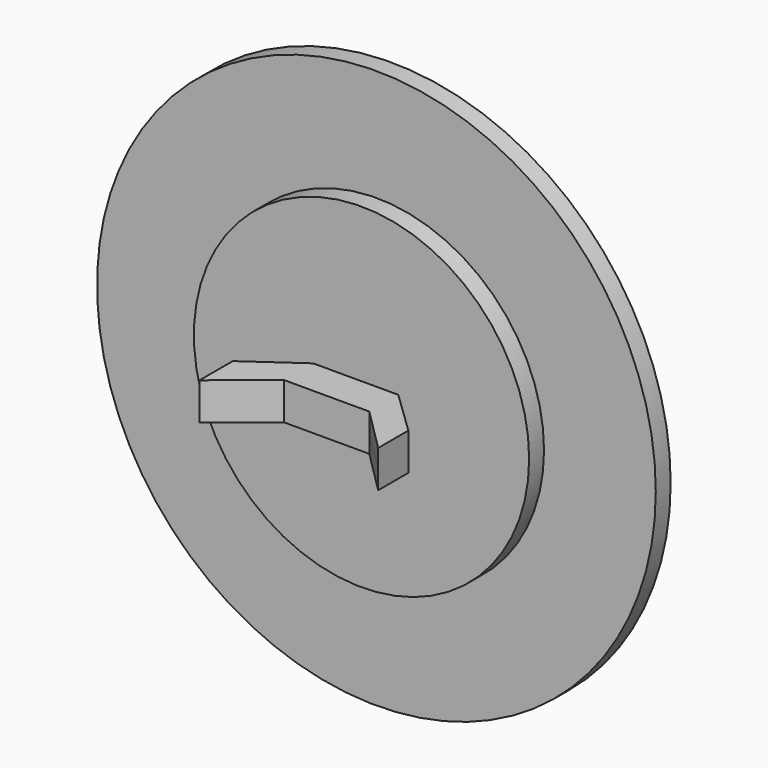
from build123d import *

# Parameters (mm, degrees)
F0_R     = 15
F1_DEPTH = 1
F2_R     = 9
F3_DEPTH = 1
F4_W     = 4.575278
F4_H     = 1.945662
F5_DEPTH = 1
F6_DEPTH = 1


with BuildPart() as f1:
    # F0 (on Front) → F1 (new body)
    with BuildSketch(Plane.XZ):
        Circle(F0_R)
    extrude(amount=F1_DEPTH)


with BuildPart() as f3:
    # F2 (on face) → F3 (new body)
    with BuildSketch(Plane.XZ.offset(1)):
        Circle(F2_R)
    extrude(amount=F3_DEPTH)


with BuildPart() as f5:
    # F4 (on Top) → F5 (new body)
    with BuildSketch(Plane.XY):
        Polygon((2.287639, -2.390692), (2.287639, -4.336354), (4.64378, -6.687361), (4.64378, -4.660631), align=None)
        with Locations((0, -3.363523)):
            Rectangle(F4_W, F4_H)
        Polygon((-5.043993, -6.565758), (-2.287639, -4.336354), (-2.287639, -2.390692), (-5.043993, -4.336354), align=None)
    extrude(amount=F5_DEPTH)

    # F5_face (on face) → F6 (join)
    with BuildSketch(Plane(origin=(-0.259442, -3.962668, 0), x_dir=(1, 0, 0), z_dir=(0, 0, -1))):
        Polygon((4.903222, 2.724694), (2.547081, 0.373686), (-2.028197, 0.373686), (-4.784551, 2.60309), (-4.784551, 0.373686), (-2.028197, -1.571976), (2.547081, -1.571976), (4.903222, 0.697963), align=None)
    extrude(amount=F6_DEPTH)


solid = Compound([f1.part, f3.part, f5.part])
